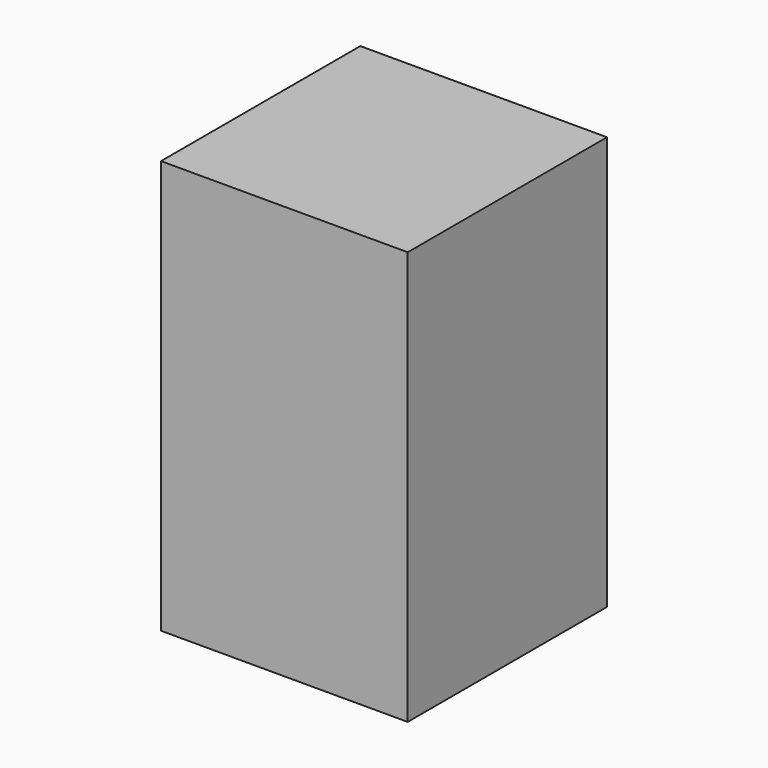
from build123d import *

# Parameters (mm, degrees)
F0_W     = 75.786695
F0_H     = 76.508477
F1_DEPTH = 127
F3_W     = 59.351934
F3_H     = 111.369688
F4_DEPTH = 37.431709


with BuildPart() as f1:
    # F0 (on Top) → F1 (new body)
    with BuildSketch(Plane.XY):
        with Locations((37.893347, -38.254238)):
            Rectangle(F0_W, F0_H)
    extrude(amount=F1_DEPTH)

    # F3 (on face) → F4 (join)
    with BuildSketch(Plane.XZ.offset(76.508477)):
        with Locations((46.110728, 71.315156)):
            Rectangle(F3_W, F3_H)
    extrude(amount=-F4_DEPTH)


solid = f1.part
